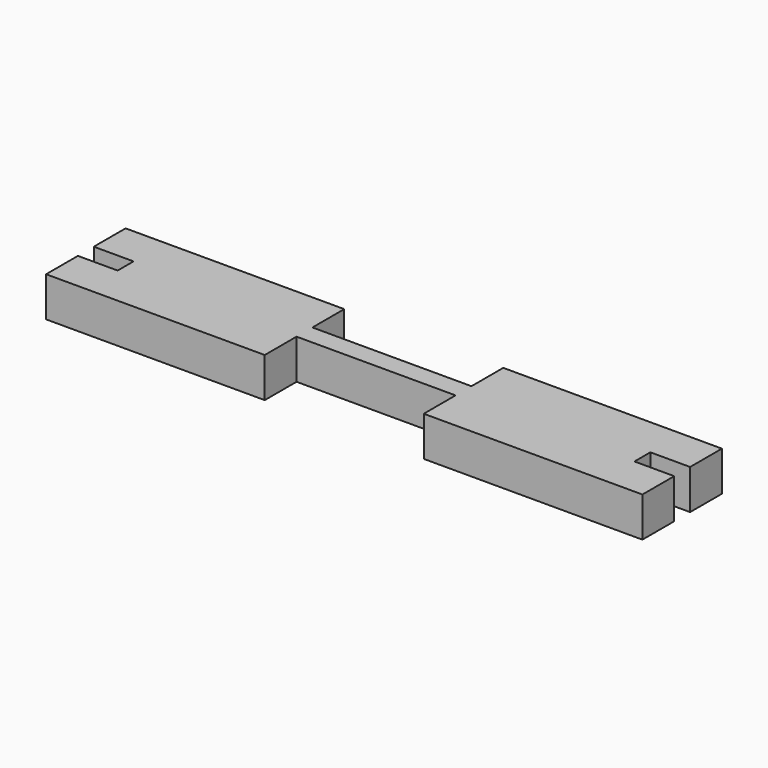
from build123d import *

# Parameters (mm, degrees)
F1_DEPTH = 5.08


with BuildPart() as f1:
    # F0 (on Top) → F1 (new body)
    with BuildSketch(Plane.XY):
        Polygon((0, -7.62), (0, -12.7), (27.94, -12.7), (27.94, -7.62), (48.26, -7.62), (48.26, -12.7), (76.2, -12.7), (76.2, -7.62), (71.12, -7.62), (71.12, -5.08), (76.2, -5.08), (76.2, 0), (48.26, 0), (48.26, -5.08), (27.94, -5.08), (27.94, 0), (0, 0), (0, -5.08), (5.08, -5.08), (5.08, -7.62), align=None)
    extrude(amount=F1_DEPTH)


solid = f1.part
